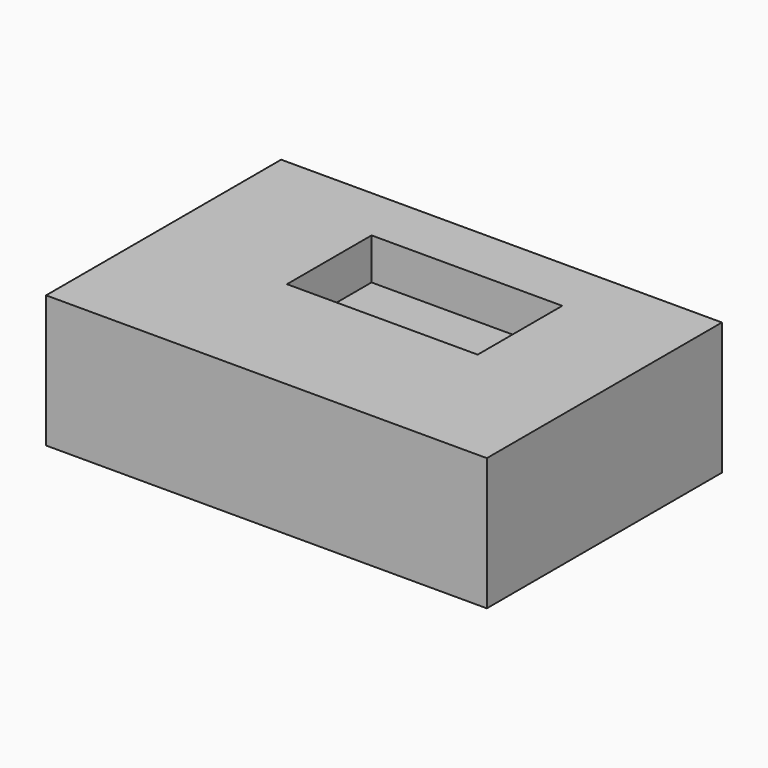
from build123d import *

# Parameters (mm, degrees)
F1_DEPTH = 114.3
F2_W     = 164.850269
F2_H     = 91.386309
F3_DEPTH = 35.814


with BuildPart() as f1:
    # F0 (on Top) → F1 (new body)
    with BuildSketch(Plane.XY):
        Polygon((30.642684, 1.024356), (-157.415008, 126.396151), (-157.415008, -121.173469), align=None)
        Polygon((223.584992, 126.396151), (-157.415008, 126.396151), (30.642684, 1.024356), align=None)
        Polygon((223.584992, -127.603849), (223.584992, 126.396151), (30.642684, 1.024356), align=None)
        Polygon((30.642684, 1.024356), (-157.415008, -121.173469), (-157.415008, -127.603849), (223.584992, -127.603849), align=None)
    extrude(amount=F1_DEPTH)

    # F2 (on face) → F3 (cut)
    with BuildSketch(Plane.XY.offset(114.3)):
        with Locations((41.791891, 32.388058)):
            Rectangle(F2_W, F2_H)
    extrude(amount=-F3_DEPTH, mode=Mode.SUBTRACT)


solid = f1.part
